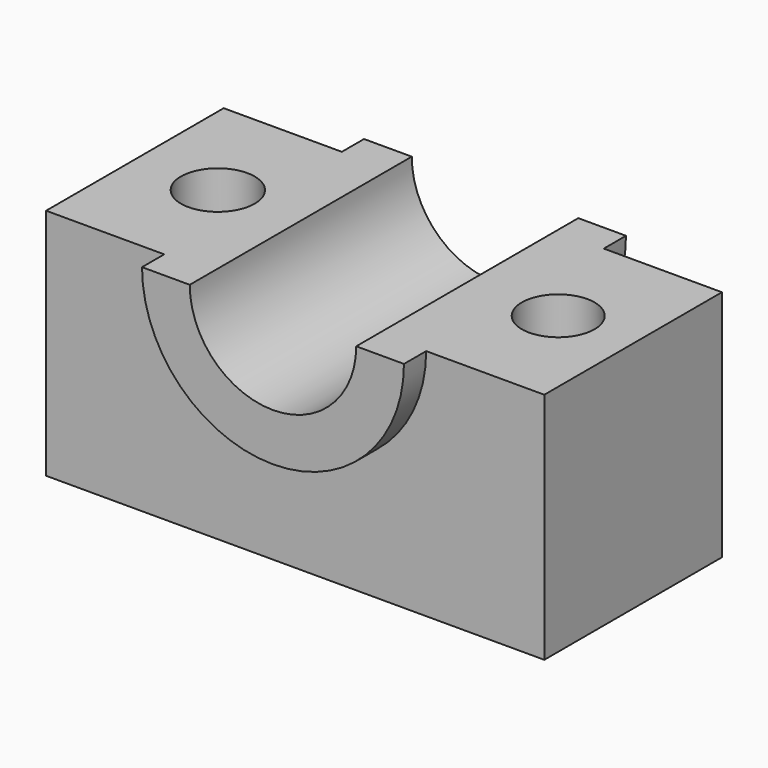
from build123d import *

# Parameters (mm, degrees)
F1_DEPTH = 25.4
F2_DEPTH = 31.75
F3_R     = 8.4375422203
F3_R_2   = 8.3190886378
F4_DEPTH = 74.422


with BuildPart() as f1:
    # F0 (on Front) → F1 (new body, symmetric)
    with BuildSketch(Plane.XZ):
        with BuildLine():
            Line((-29.9681008023, 26.6969427466), (-56.9970235229, 26.6969427466))
            Line((-56.9970235229, 26.6969427466), (-56.9970235229, -26.6969427466))
            Line((-56.9970235229, -26.6969427466), (56.9970235229, -26.6969427466))
            Line((56.9970235229, -26.6969427466), (56.9970235229, 26.6969427466))
            Line((56.9970235229, 26.6969427466), (29.9681008023, 26.6969427466))
            ThreePointArc((29.9681008023, 26.6969427466), (0, -3.2711580556), (-29.9681008023, 26.6969427466))
        make_face()
    extrude(amount=F1_DEPTH, both=True)

    # F0 (on Front) → F2 (join, symmetric)
    with BuildSketch(Plane.XZ):
        with BuildLine():
            Line((-19.0461007878, 26.6969427466), (-29.9681008023, 26.6969427466))
            ThreePointArc((-29.9681008023, 26.6969427466), (0, -3.2711580556), (29.9681008023, 26.6969427466))
            Line((29.9681008023, 26.6969427466), (19.0461007878, 26.6969427466))
            ThreePointArc((19.0461007878, 26.6969427466), (0, 7.6508419588), (-19.0461007878, 26.6969427466))
        make_face()
    extrude(amount=F2_DEPTH, both=True)

    # F3 (on face) → F4 (cut)
    with BuildSketch(Plane.XY.offset(26.6969427466)):
        with Locations((-38.0215607584, 0)):
            Circle(F3_R)
        with Locations((39.8610122502, 0)):
            Circle(F3_R_2)
    extrude(amount=-F4_DEPTH, mode=Mode.SUBTRACT)


solid = f1.part
